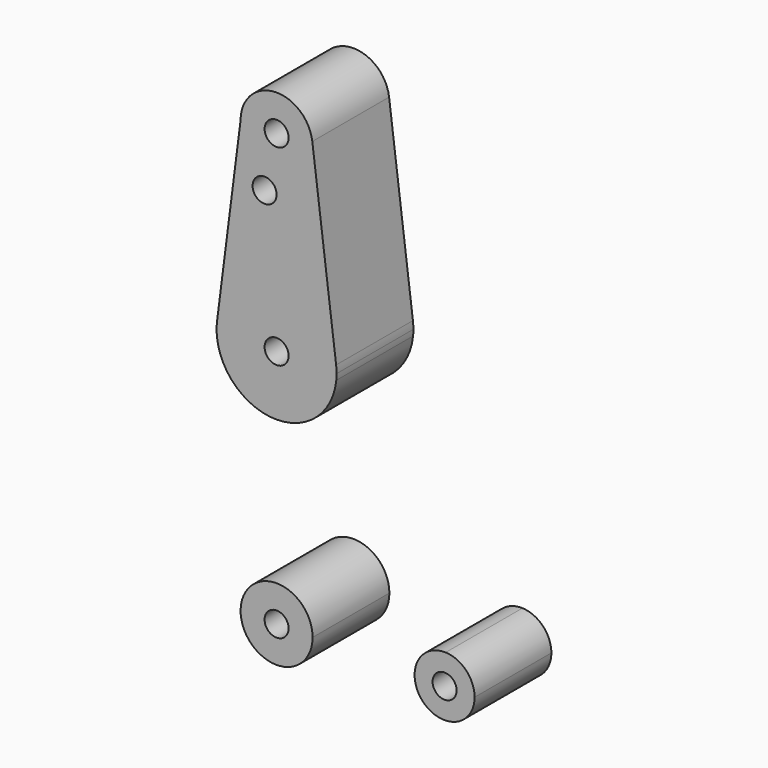
from build123d import *

# Parameters (mm, degrees)
F0_R     = 3.175
F1_DEPTH = 25.4


with BuildPart() as f1:
    # F0 (on Front) → F1 (new body)
    with BuildSketch(Plane.XZ):
        with BuildLine():
            ThreePointArc((0.677344, -9.500886), (6.970557, -6.491299), (9.525, 0))
            ThreePointArc((9.525, 0), (-6.735192, 6.735192), (0, -9.525))
            Line((0, -9.525), (0.677344, -9.500886))
        make_face()
        Circle(F0_R, mode=Mode.SUBTRACT)
        with BuildLine():
            ThreePointArc((-15.795426, 61.9125), (0, 47.625), (15.795426, 61.9125))
            ThreePointArc((15.795426, 61.9125), (15.855094, 62.705253), (15.875, 63.5))
            ThreePointArc((15.875, 63.5), (15.843841, 64.494139), (15.750488, 65.484375))
            ThreePointArc((15.750488, 65.484375), (0.012053, 79.374995), (-15.747457, 65.508289))
            ThreePointArc((-15.747457, 65.508289), (-15.873588, 63.711757), (-15.795426, 61.9125))
        make_face()
        with Locations((0, 63.5)):
            Circle(F0_R, mode=Mode.SUBTRACT)
        with BuildLine():
            ThreePointArc((44.733482, 7.932436), (36.5125, 0.000539), (44.732405, -7.932475))
            ThreePointArc((44.732405, -7.932475), (50.161633, -5.51191), (52.3875, 0))
            ThreePointArc((52.3875, 0), (50.162007, 5.511523), (44.733482, 7.932436))
        make_face()
        with Locations((44.45, 0)):
            Circle(F0_R, mode=Mode.SUBTRACT)
        with BuildLine():
            Line((0.677344, -9.500886), (0, -9.525))
            ThreePointArc((0, -9.525), (0.338886, -9.51897), (0.677344, -9.500886))
        make_face()
        with BuildLine():
            Line((-9.525, 114.3), (-15.747457, 65.508289))
            ThreePointArc((-15.747457, 65.508289), (0.012053, 79.374995), (15.750488, 65.484375))
            Line((15.750488, 65.484375), (9.450293, 115.490625))
            ThreePointArc((9.450293, 115.490625), (9.506305, 114.896483), (9.525, 114.3))
            ThreePointArc((9.525, 114.3), (0, 104.775), (-9.525, 114.3))
        make_face()
        with Locations((-3.175, 100.0252)):
            Circle(F0_R, mode=Mode.SUBTRACT)
        with BuildLine():
            ThreePointArc((9.450293, 115.490625), (-0.596483, 123.806305), (-9.525, 114.3))
            ThreePointArc((-9.525, 114.3), (0, 104.775), (9.525, 114.3))
            ThreePointArc((9.525, 114.3), (9.506305, 114.896483), (9.450293, 115.490625))
        make_face()
        with Locations((0, 114.3)):
            Circle(F0_R, mode=Mode.SUBTRACT)
    extrude(amount=F1_DEPTH)


solid = f1.part
